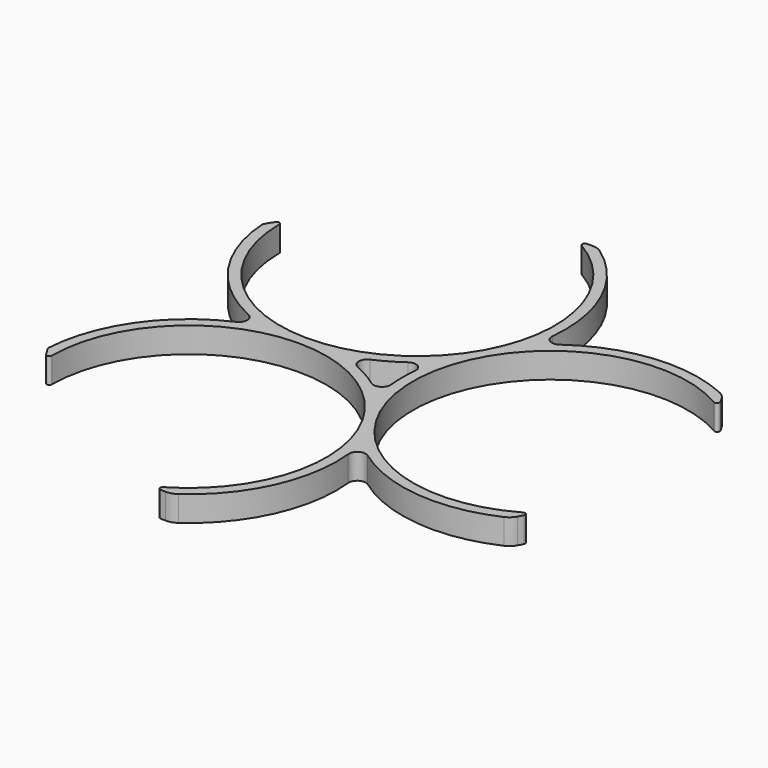
from build123d import *

# Parameters (mm, degrees)
F1_DEPTH = 3
F2_R     = 1
F3_R     = 1
F4_R     = 0.3
F5_R     = 2


with BuildPart() as f1:
    # F0 (on Top) → F1 (new body)
    with BuildSketch(Plane.XY):
        with BuildLine():
            ThreePointArc((-19.617558, -31.499723), (-12.893302, -23.153214), (-12.296617, -12.451635))
            ThreePointArc((-12.296617, -12.451635), (-2.730434, -17.28568), (7.859982, -15.635558))
            ThreePointArc((7.859982, -15.635558), (8.420401, -14.611869), (8.942514, -13.568122))
            ThreePointArc((8.942514, -13.568122), (-16.25, 0), (8.942514, 13.568122))
            ThreePointArc((8.942514, 13.568122), (8.420401, 14.611869), (7.859982, 15.635558))
            ThreePointArc((7.859982, 15.635558), (-2.730434, 17.28568), (-12.296617, 12.451635))
            ThreePointArc((-12.296617, 12.451635), (-12.893302, 23.153214), (-19.617558, 31.499723))
            ThreePointArc((-19.617558, 31.499723), (-20.784308, 31.473215), (-21.949276, 31.403506))
            ThreePointArc((-21.949276, 31.403506), (-21.103357, 2.802087), (-45.449953, 17.835383))
            ThreePointArc((-45.449953, 17.835383), (-46.092807, 16.861347), (-46.699139, 15.864165))
            ThreePointArc((-46.699139, 15.864165), (-42.832978, 5.867535), (-33.863481, 0))
            ThreePointArc((-33.863481, 0), (-42.832978, -5.867535), (-46.699139, -15.864165))
            ThreePointArc((-46.699139, -15.864165), (-46.092807, -16.861347), (-45.449953, -17.835383))
            ThreePointArc((-45.449953, -17.835383), (-21.103357, -2.802087), (-21.949276, -31.403506))
            ThreePointArc((-21.949276, -31.403506), (-20.784308, -31.473215), (-19.617558, -31.499723))
        make_face()
        with BuildLine():
            ThreePointArc((-16.931741, 4.423365), (-17.5, 0), (-16.931741, -4.423365))
            ThreePointArc((-16.931741, -4.423365), (-20.478357, -1.719555), (-24.593233, 0))
            ThreePointArc((-24.593233, 0), (-20.478357, 1.719555), (-16.931741, 4.423365))
        make_face(mode=Mode.SUBTRACT)
    extrude(amount=F1_DEPTH)

    # F2
    f2_edges = [f1.edges().sort_by_distance(p)[0] for p in [
        (-33.863481, 0, 1.5),
        (-12.296617, 12.451635, 1.5),
        (-12.296617, -12.451635, 1.5),
    ]]
    fillet(f2_edges, radius=F2_R)

    # F3
    f3_edges = [f1.edges().sort_by_distance(p)[0] for p in [
        (-16.931741, 4.423365, 1.5),
        (-16.931741, -4.423365, 1.5),
        (-24.593233, 0, 1.5),
    ]]
    fillet(f3_edges, radius=F3_R)

    # F4
    f4_edges = [f1.edges().sort_by_distance(p)[0] for p in [
        (8.942514, 13.568122, 1.5),
        (8.942514, -13.568122, 1.5),
        (-21.949276, -31.403506, 1.5),
        (-45.449953, -17.835383, 1.5),
        (-21.949276, 31.403506, 1.5),
        (-45.449953, 17.835383, 1.5),
    ]]
    fillet(f4_edges, radius=F4_R)

    # F5
    f5_edges = [f1.edges().sort_by_distance(p)[0] for p in [
        (7.859982, 15.635558, 1.5),
        (-19.617558, 31.499723, 1.5),
        (7.859982, -15.635558, 1.5),
        (-19.617558, -31.499723, 1.5),
    ]]
    fillet(f5_edges, radius=F5_R)


solid = f1.part
